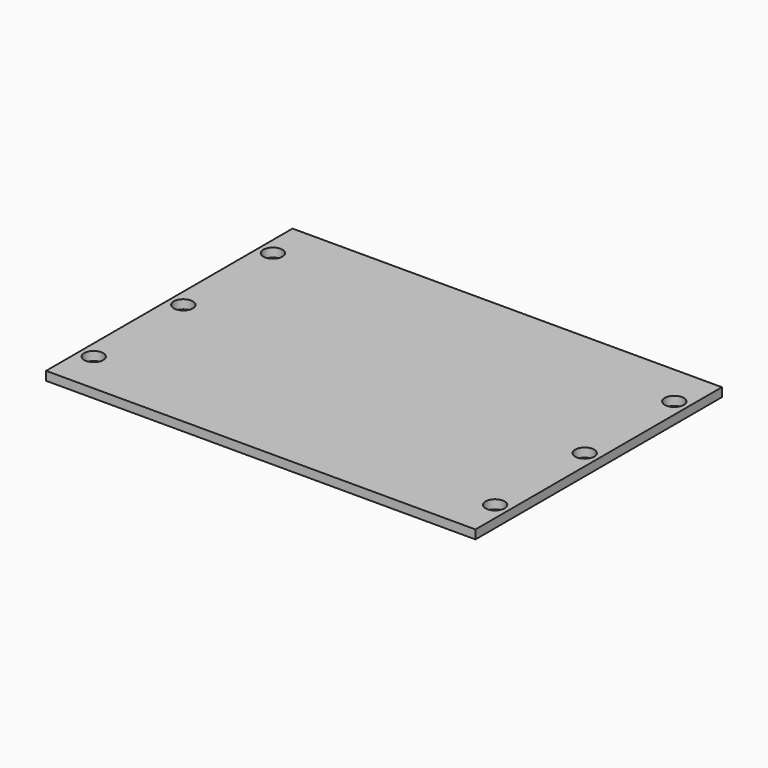
from build123d import *

# Parameters (mm, degrees)
F0_W     = 146.05
F0_H     = 104.775
F0_R     = 3.24
F1_DEPTH = 3


with BuildPart() as f1:
    # F0 (on Top) → F1 (new body)
    with BuildSketch(Plane.XY):
        Rectangle(F0_W, F0_H)
        with Locations((-68.262, -38.0995)):
            Circle(F0_R, mode=Mode.SUBTRACT)
        with Locations((68.262, -38.0995)):
            Circle(F0_R, mode=Mode.SUBTRACT)
        with Locations((-68.262, 0.0005)):
            Circle(F0_R, mode=Mode.SUBTRACT)
        with Locations((-68.262, 38.0995)):
            Circle(F0_R, mode=Mode.SUBTRACT)
        with BuildLine():
            ThreePointArc((68.262, 44.4495), (61.912, 38.0995), (68.262, 31.7495))
            Line((68.262, 31.7495), (72.225, 31.7495))
            Line((72.225, 31.7495), (72.225, 6.3505))
            Line((72.225, 6.3505), (68.262, 6.3505))
            ThreePointArc((68.262, 6.3505), (61.912, 0.0005), (68.262, -6.3495))
            Line((68.262, -6.3495), (72.225, -6.3495))
            Line((72.225, -6.3495), (72.225, -31.7495))
            Line((72.225, -31.7495), (68.262, -31.7495))
            ThreePointArc((68.262, -31.7495), (61.912, -38.0995), (68.262, -44.4495))
            Line((68.262, -44.4495), (72.225, -44.4495))
            Line((72.225, -44.4495), (72.225, -51.5875))
            Line((72.225, -51.5875), (-72.225, -51.5875))
            Line((-72.225, -51.5875), (-72.225, -44.4495))
            Line((-72.225, -44.4495), (-68.262, -44.4495))
            ThreePointArc((-68.262, -44.4495), (-61.912, -38.0995), (-68.262, -31.7495))
            Line((-68.262, -31.7495), (-72.225, -31.7495))
            Line((-72.225, -31.7495), (-72.225, -6.3495))
            Line((-72.225, -6.3495), (-68.262, -6.3495))
            ThreePointArc((-68.262, -6.3495), (-61.912, 0.0005), (-68.262, 6.3505))
            Line((-68.262, 6.3505), (-72.225, 6.3505))
            Line((-72.225, 6.3505), (-72.225, 31.7495))
            Line((-72.225, 31.7495), (-68.262, 31.7495))
            ThreePointArc((-68.262, 31.7495), (-61.912, 38.0995), (-68.262, 44.4495))
            Line((-68.262, 44.4495), (-72.225, 44.4495))
            Line((-72.225, 44.4495), (-72.225, 51.5875))
            Line((-72.225, 51.5875), (72.225, 51.5875))
            Line((72.225, 51.5875), (72.225, 44.4495))
            Line((72.225, 44.4495), (68.262, 44.4495))
        make_face(mode=Mode.SUBTRACT)
        with Locations((68.262, 0.0005)):
            Circle(F0_R, mode=Mode.SUBTRACT)
        with Locations((68.262, 38.0995)):
            Circle(F0_R, mode=Mode.SUBTRACT)
        with BuildLine():
            Line((72.225, 31.7495), (68.262, 31.7495))
            ThreePointArc((68.262, 31.7495), (61.912, 38.0995), (68.262, 44.4495))
            Line((68.262, 44.4495), (72.225, 44.4495))
            Line((72.225, 44.4495), (72.225, 51.5875))
            Line((72.225, 51.5875), (-72.225, 51.5875))
            Line((-72.225, 51.5875), (-72.225, 44.4495))
            Line((-72.225, 44.4495), (-68.262, 44.4495))
            ThreePointArc((-68.262, 44.4495), (-61.912, 38.0995), (-68.262, 31.7495))
            Line((-68.262, 31.7495), (-72.225, 31.7495))
            Line((-72.225, 31.7495), (-72.225, 6.3505))
            Line((-72.225, 6.3505), (-68.262, 6.3505))
            ThreePointArc((-68.262, 6.3505), (-61.912, 0.0005), (-68.262, -6.3495))
            Line((-68.262, -6.3495), (-72.225, -6.3495))
            Line((-72.225, -6.3495), (-72.225, -31.7495))
            Line((-72.225, -31.7495), (-68.262, -31.7495))
            ThreePointArc((-68.262, -31.7495), (-61.912, -38.0995), (-68.262, -44.4495))
            Line((-68.262, -44.4495), (-72.225, -44.4495))
            Line((-72.225, -44.4495), (-72.225, -51.5875))
            Line((-72.225, -51.5875), (72.225, -51.5875))
            Line((72.225, -51.5875), (72.225, -44.4495))
            Line((72.225, -44.4495), (68.262, -44.4495))
            ThreePointArc((68.262, -44.4495), (61.912, -38.0995), (68.262, -31.7495))
            Line((68.262, -31.7495), (72.225, -31.7495))
            Line((72.225, -31.7495), (72.225, -6.3495))
            Line((72.225, -6.3495), (68.262, -6.3495))
            ThreePointArc((68.262, -6.3495), (61.912, 0.0005), (68.262, 6.3505))
            Line((68.262, 6.3505), (72.225, 6.3505))
            Line((72.225, 6.3505), (72.225, 31.7495))
        make_face()
    extrude(amount=F1_DEPTH)


solid = f1.part
